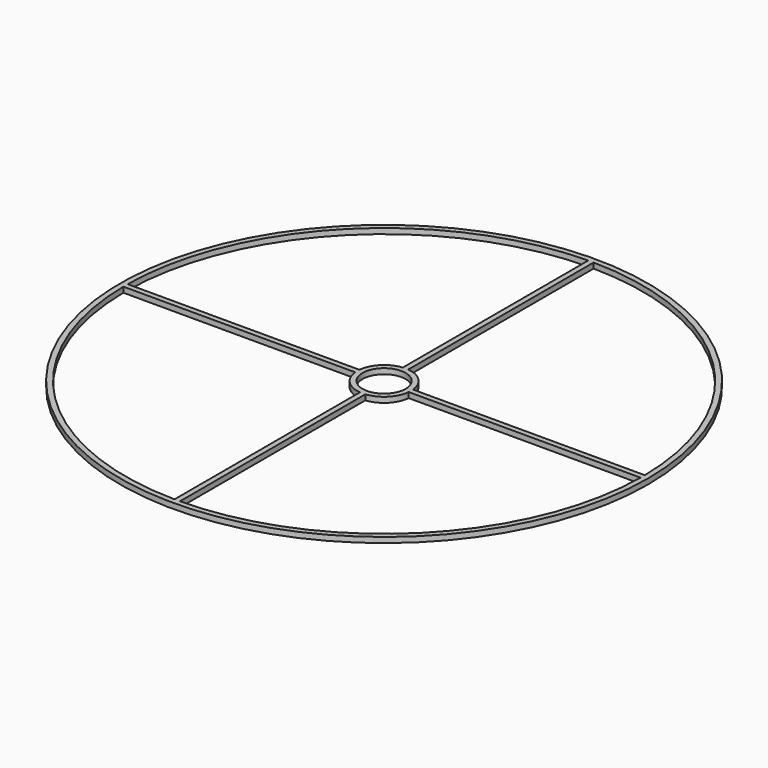
from build123d import *

# Parameters (mm, degrees)
F0_R     = 155.575
F0_R_2   = 12.7
F1_DEPTH = 3.175


with BuildPart() as f1:
    # F0 (on Top) → F1 (new body)
    with BuildSketch(Plane.XY):
        Circle(F0_R)
        with BuildLine():
            Line((-1.5875, -15.795426), (-1.5875, -152.391732))
            ThreePointArc((-1.5875, -152.391732), (-107.763073, -107.763073), (-152.391732, -1.5875))
            Line((-152.391732, -1.5875), (-15.795426, -1.5875))
            ThreePointArc((-15.795426, -1.5875), (-11.22532, -11.22532), (-1.5875, -15.795426))
        make_face(mode=Mode.SUBTRACT)
        with BuildLine():
            ThreePointArc((152.391732, -1.5875), (107.763073, -107.763073), (1.5875, -152.391732))
            Line((1.5875, -152.391732), (1.5875, -15.795426))
            ThreePointArc((1.5875, -15.795426), (11.22532, -11.22532), (15.795426, -1.5875))
            Line((15.795426, -1.5875), (152.391732, -1.5875))
        make_face(mode=Mode.SUBTRACT)
        with BuildLine():
            ThreePointArc((-152.391732, 1.5875), (-107.763073, 107.763073), (-1.5875, 152.391732))
            Line((-1.5875, 152.391732), (-1.5875, 15.795426))
            ThreePointArc((-1.5875, 15.795426), (-11.22532, 11.22532), (-15.795426, 1.5875))
            Line((-15.795426, 1.5875), (-152.391732, 1.5875))
        make_face(mode=Mode.SUBTRACT)
        Circle(F0_R_2, mode=Mode.SUBTRACT)
        with BuildLine():
            Line((1.5875, 15.795426), (1.5875, 152.391732))
            ThreePointArc((1.5875, 152.391732), (107.763073, 107.763073), (152.391732, 1.5875))
            Line((152.391732, 1.5875), (15.795426, 1.5875))
            ThreePointArc((15.795426, 1.5875), (11.22532, 11.22532), (1.5875, 15.795426))
        make_face(mode=Mode.SUBTRACT)
    extrude(amount=F1_DEPTH)


solid = f1.part
